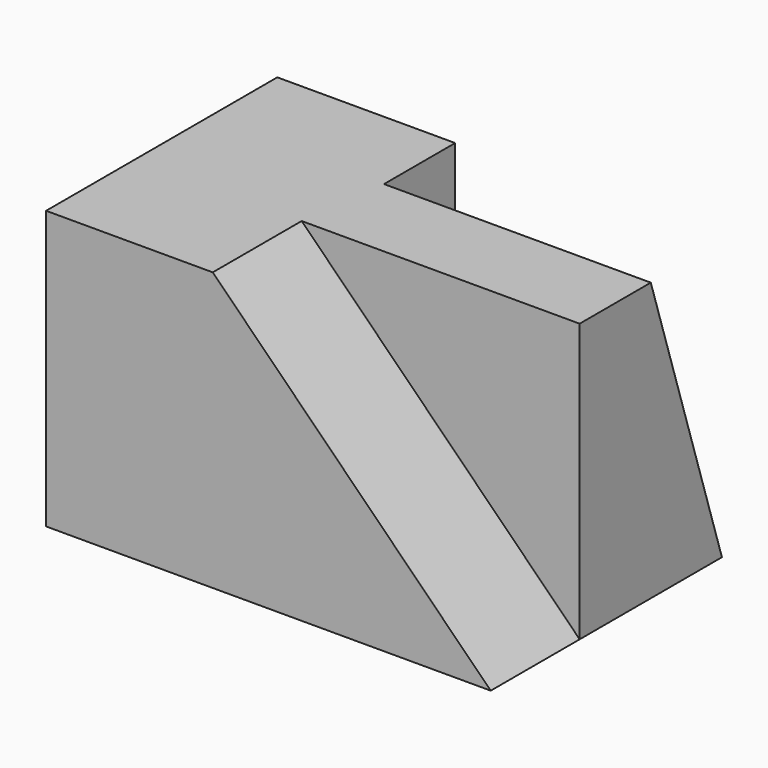
from build123d import *

# Parameters (mm, degrees)
F1_DEPTH = 33.02
F3_DEPTH = 12.7
F5_DEPTH = 30.48


with BuildPart() as f1:
    # F0 (on Front) → F1 (new body)
    with BuildSketch(Plane.XZ):
        Polygon((-25.4, 0), (0, 0), (25.4, 0), (25.4, 31.75), (-25.4, 31.75), align=None)
    extrude(amount=F1_DEPTH)

    # F2 (on face) → F3 (cut)
    with BuildSketch(Plane.XZ.offset(33.02)):
        Polygon((25.4, 31.75), (-6.357383, 31.75), (25.4, 0), align=None)
    extrude(amount=-F3_DEPTH, mode=Mode.SUBTRACT)

    # F4 (on face) → F5 (cut)
    with BuildSketch(Plane.YZ.offset(25.4)):
        Polygon((-10.16, 31.75), (0, 0), (0, 31.75), align=None)
    extrude(amount=-F5_DEPTH, mode=Mode.SUBTRACT)


solid = f1.part
